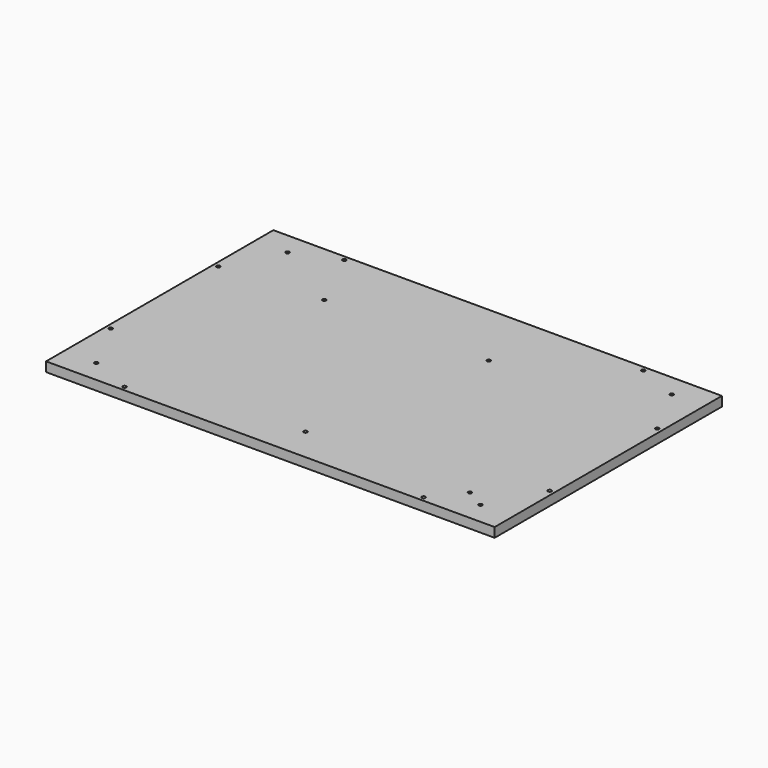
from build123d import *

# Parameters (mm, degrees)
F0_W     = 300
F0_H     = 190
F1_DEPTH = 6.35
F4_D     = 2.4


with BuildPart() as f1:
    # F0 (on Top) → F1 (new body)
    with BuildSketch(Plane.XY):
        Rectangle(F0_W, F0_H)
    extrude(amount=F1_DEPTH)

    # F4 (through all)
    with Locations(Plane.XY.offset(6.35)):
        with Locations((-128.5, 80), (-80, 50), (-128.5, -80), (5.5, -72.5), (30, 50), (115.5, -72.5), (128.5, -80), (128.5, 80), (-100, 91.825), (-146.825, 45), (-146.825, -45), (-100, -91.825), (100, -91.825), (146.825, -45), (146.825, 45), (100, 91.825)):
            Hole(F4_D / 2)


solid = f1.part
